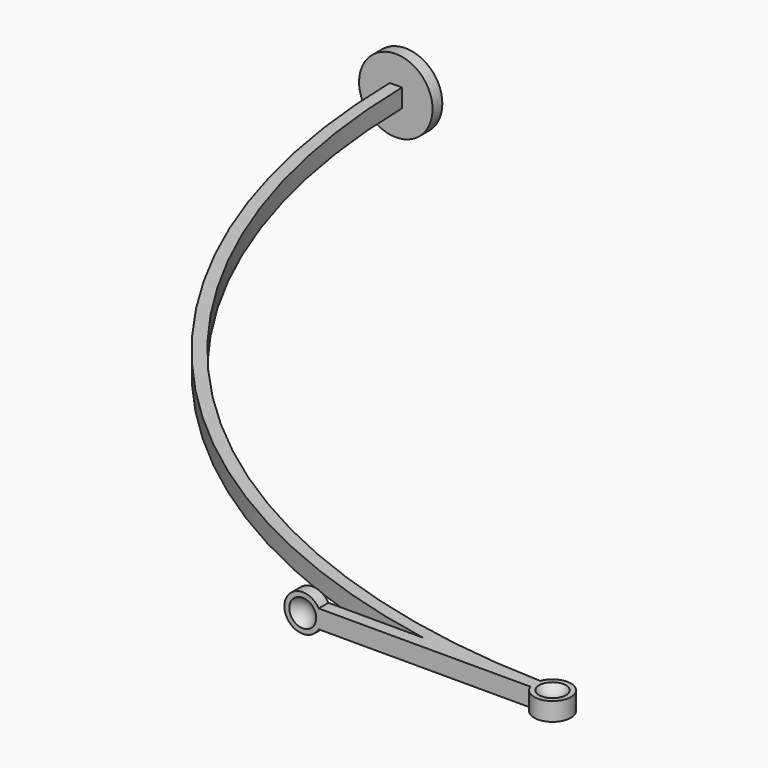
from build123d import *

# Parameters (mm, degrees)
PAD_DEPTH    = 0.375
SKETCH002_R  = 1.5
PAD001_DEPTH = 0.5
SKETCH003_W  = 10
SKETCH003_H  = 0.5
PAD002_DEPTH = 0.375
SKETCH004_R  = 0.75
PAD003_DEPTH = 0.25


with BuildPart() as part:
    # Sketch → Pad (new body, symmetric)
    with BuildSketch(Plane.XY):
        with BuildLine():
            Line((-0.25, 0), (0, 0))
            Line((0, 0), (0.25, 0))
            ThreePointArc((0.25, 0), (8.71609, -20.785997), (29.295895, -29.741667))
            ThreePointArc((29.290002, -30.241667), (30.749948, -30.008839), (29.295895, -29.741667))
            ThreePointArc((-0.25, 0), (8.360454, -21.137467), (29.290002, -30.241667))
        make_face()
    extrude(amount=PAD_DEPTH, both=True)

    # Sketch002 → Pad001 (join)
    with BuildSketch(Plane.XZ):
        Circle(SKETCH002_R)
    extrude(amount=PAD001_DEPTH)

    # Sketch003 → Pad002 (join, symmetric)
    with BuildSketch(Plane.XY):
        with Locations((25, -30)):
            Rectangle(SKETCH003_W, SKETCH003_H)
    extrude(amount=PAD002_DEPTH, both=True)

    # Sphere → Sphere (revolve, cut)
    with BuildSketch(Plane(origin=(30, -30, 0.6925), x_dir=(1, 0, 0), z_dir=(0, -1, 0))):
        with BuildLine():
            ThreePointArc((0, -0.635), (0.635, 0), (0, 0.635))
            Line((0, 0.635), (0, -0.635))
        make_face()
    revolve(axis=Axis((30, -30, 0.6925), (0, 0, 1)), mode=Mode.SUBTRACT)

    # Sketch004 (on DatumPlane) → Pad003 (join, symmetric)
    with BuildSketch(Plane(origin=(20, -30, 0), x_dir=(1, 0, 0), z_dir=(0, -1, 0))):
        Circle(SKETCH004_R)
    extrude(amount=PAD003_DEPTH, both=True)

    # Sphere001 → Sphere001 (revolve, cut)
    with BuildSketch(Plane(origin=(20, -30.5675, 0), x_dir=(1, 0, 0), z_dir=(0, -1, 0))):
        with BuildLine():
            ThreePointArc((0, -0.635), (0.635, 0), (0, 0.635))
            Line((0, 0.635), (0, -0.635))
        make_face()
    revolve(axis=Axis((20, -30.5675, 0), (0, 0, 1)), mode=Mode.SUBTRACT)


solid = part.part
